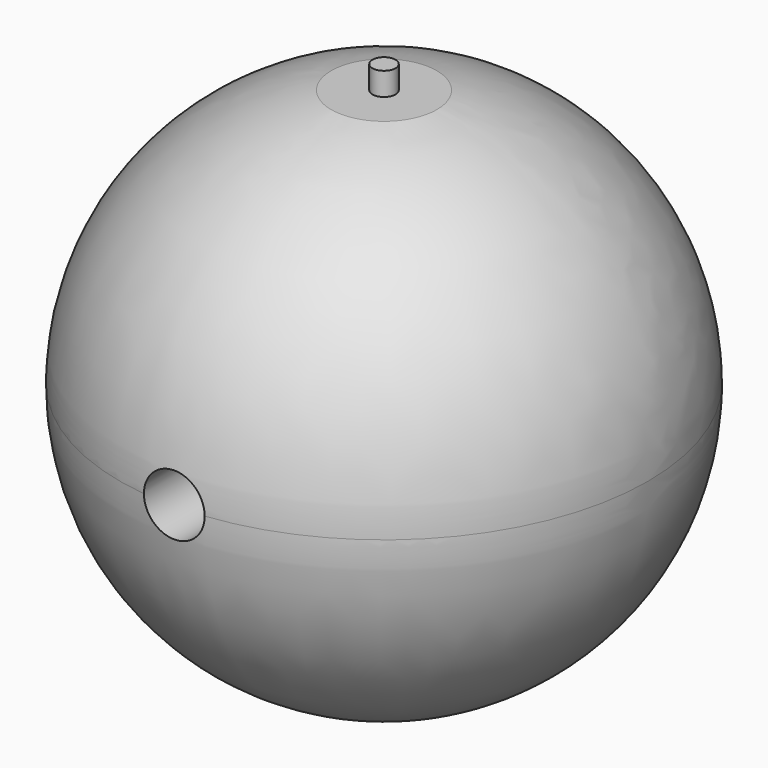
from build123d import *

# Parameters (mm, degrees)
F3_DEPTH  = 12.7
F4_R      = 1.27
F5_DEPTH  = 2.54
F6_R      = 1.27
F7_DEPTH  = 2.54
F5_FACE_R = 1.27
F8_DEPTH  = 5.08
F7_FACE_R = 1.27
F9_DEPTH  = 5.08
F10_R     = 3.342625
F11_DEPTH = 42.164


with BuildPart() as f1:
    # F0 (on Front) → F1 (revolve)
    with BuildSketch(Plane.XZ):
        with BuildLine():
            ThreePointArc((0, -29.039641), (20.534127, -20.534127), (29.039641, 0))
            ThreePointArc((29.039641, 0), (20.534127, 20.534127), (0, 29.039641))
            Line((0, 29.039641), (0, -29.039641))
        make_face()
    revolve(axis=Axis((0, 0, 0), (0, 0, -1)))

    # F2 (on Right) → F3 (cut, symmetric)
    with BuildSketch(Plane.YZ):
        Polygon((-32.992329, 28.453402), (0, 28.453402), (29.31824, 28.453402), (29.31824, 34.250099), (-32.992329, 34.250099), align=None)
        Polygon((29.438438, -28.448), (-32.842074, -28.448), (-32.842074, -37.691581), (29.31824, -37.691581), (29.31824, -29.660275), align=None)
    extrude(amount=F3_DEPTH, both=True, mode=Mode.SUBTRACT)

    # F4 (on face) → F5 (cut)
    with BuildSketch(Plane(origin=(0, 0, -28.448), x_dir=(1, 0, 0), z_dir=(0, 0, -1))):
        Circle(F4_R)
    extrude(amount=-F5_DEPTH, mode=Mode.SUBTRACT)

    # F6 (on face) → F7 (cut)
    with BuildSketch(Plane.XY.offset(28.453402)):
        Circle(F6_R)
    extrude(amount=-F7_DEPTH, mode=Mode.SUBTRACT)

    # F5_face (on face) → F8 (join)
    with BuildSketch(Plane(origin=(0, 0, -25.908), x_dir=(1, 0, 0), z_dir=(0, 0, -1))):
        Circle(F5_FACE_R)
    extrude(amount=F8_DEPTH)

    # F7_face (on face) → F9 (join)
    with BuildSketch(Plane.XY.offset(25.913402)):
        Circle(F7_FACE_R)
    extrude(amount=F9_DEPTH)

    # F10 (on Front) → F11 (cut, symmetric)
    with BuildSketch(Plane.XZ):
        Circle(F10_R)
    extrude(amount=F11_DEPTH, both=True, mode=Mode.SUBTRACT)


solid = f1.part
